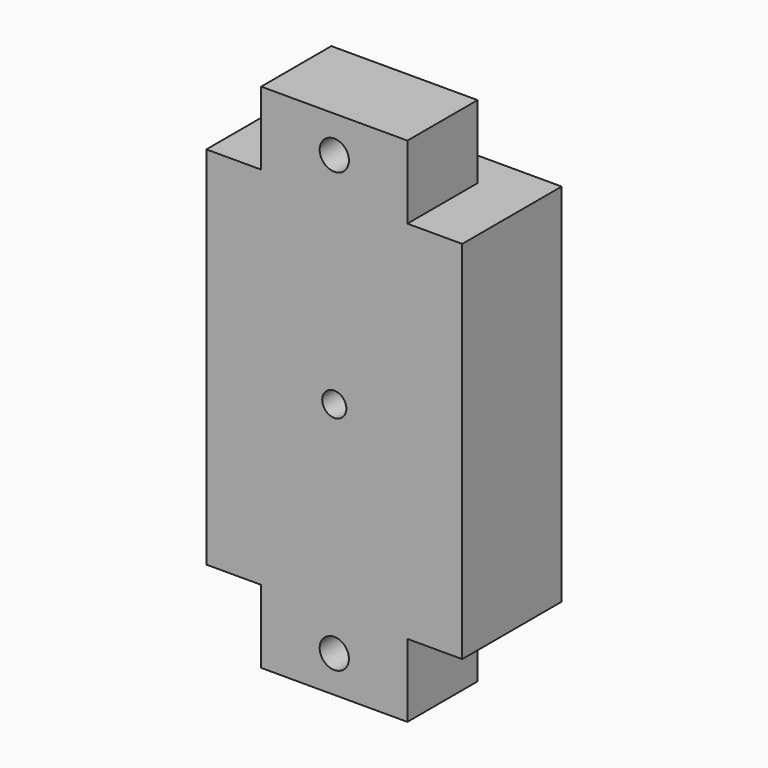
from build123d import *

# Parameters (mm, degrees)
F0_R           = 1.65
F1_DEPTH       = 17
F2_DEPTH       = 8
F3_DEPTH       = 5
F6_D           = 4
F6_CSINK_D     = 8.7
F6_CSINK_ANGLE = 90


with BuildPart() as f1:
    # F0 (on Front) → F1 (new body)
    with BuildSketch(Plane.XZ):
        Polygon((10, 25), (0, 25), (-10, 25), (-17.5, 25), (-17.5, 0), (-17.5, -25), (-10, -25), (0, -25), (10, -25), (17.5, -25), (17.5, 25), align=None)
        with BuildLine():
            ThreePointArc((0, 15), (10.606602, 10.606602), (15, 0))
            ThreePointArc((15, 0), (-10.606602, -10.606602), (0, 15))
        make_face(mode=Mode.SUBTRACT)
        with BuildLine():
            ThreePointArc((0, 15), (-10.606602, -10.606602), (15, 0))
            ThreePointArc((15, 0), (10.606602, 10.606602), (0, 15))
        make_face()
        Circle(F0_R, mode=Mode.SUBTRACT)
        Polygon((-10, 25), (0, 25), (10, 25), (10, 35), (0, 35), (-10, 35), align=None)
        Polygon((10, -35), (10, -25), (0, -25), (-10, -25), (-10, -35), (0, -35), align=None)
    extrude(amount=F1_DEPTH)

    # F0 (on Front) → F2 (cut)
    with BuildSketch(Plane.XZ):
        with BuildLine():
            ThreePointArc((0, 15), (-10.606602, -10.606602), (15, 0))
            ThreePointArc((15, 0), (10.606602, 10.606602), (0, 15))
        make_face()
        Circle(F0_R, mode=Mode.SUBTRACT)
    extrude(amount=F2_DEPTH, mode=Mode.SUBTRACT)

    # F0 (on Front) → F3 (cut)
    with BuildSketch(Plane.XZ):
        Polygon((-10, 25), (0, 25), (10, 25), (10, 35), (0, 35), (-10, 35), align=None)
        Polygon((10, -35), (10, -25), (0, -25), (-10, -25), (-10, -35), (0, -35), align=None)
    extrude(amount=F3_DEPTH, mode=Mode.SUBTRACT)

    # F6 (through all)
    with Locations(Plane(origin=(0, -5, 0), x_dir=(-1, 0, 0), z_dir=(0, 1, 0))):
        with Locations((0, -30), (0, 30)):
            CounterSinkHole(F6_D / 2, F6_CSINK_D / 2, counter_sink_angle=F6_CSINK_ANGLE)


solid = f1.part
